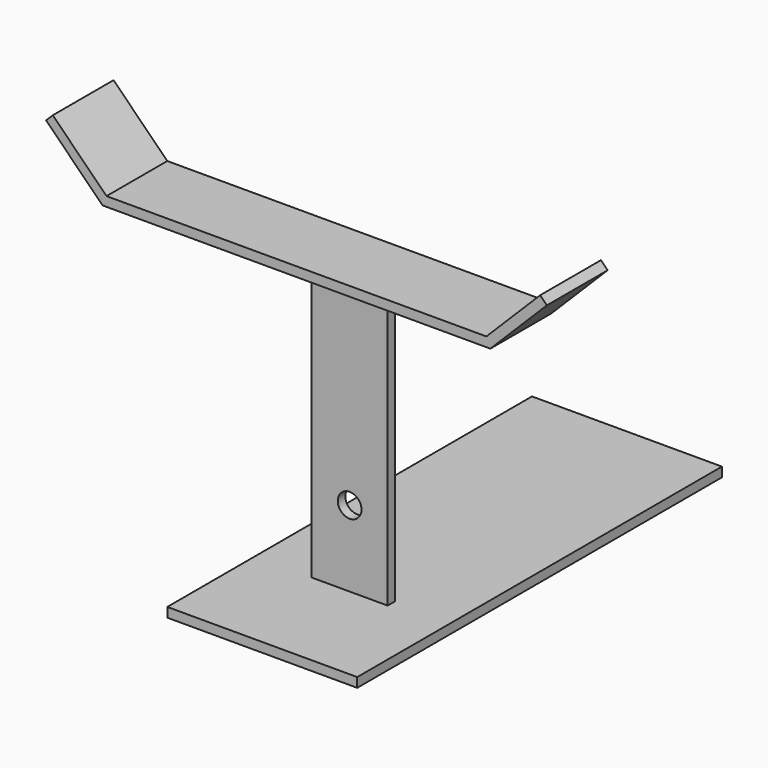
from build123d import *

# Parameters (mm, degrees)
F0_W     = 127
F0_H     = 304.8
F1_DEPTH = 6.35
F2_W     = 50.8
F2_H     = 6.35
F3_DEPTH = 203.2
F5_D     = 15.875
F7_DEPTH = 50.8


with BuildPart() as f1:
    # F0 (on Top) → F1 (new body)
    with BuildSketch(Plane.XY):
        Rectangle(F0_W, F0_H)
    extrude(amount=-F1_DEPTH)

    # F2 (on face) → F3 (join)
    with BuildSketch(Plane.XY):
        with Locations((0, -76.2)):
            Rectangle(F2_W, F2_H)
    extrude(amount=F3_DEPTH)

    # F5 (through all)
    with Locations(Plane.XZ.offset(79.375)):
        with Locations((0, 50.8)):
            Hole(F5_D / 2)

    # F6 (on face) → F7 (join)
    with BuildSketch(Plane(origin=(0, -73.025, 0), x_dir=(-1, 0, 0), z_dir=(0, 1, 0))):
        Polygon((-129.630256, 203.2), (-127, 203.2), (127, 203.2), (129.630256, 203.2), (167.411153, 240.980896), (162.921024, 245.471024), (127, 209.55), (-127, 209.55), (-162.921024, 245.471024), (-167.411153, 240.980896), align=None)
    extrude(amount=-F7_DEPTH)


solid = f1.part
